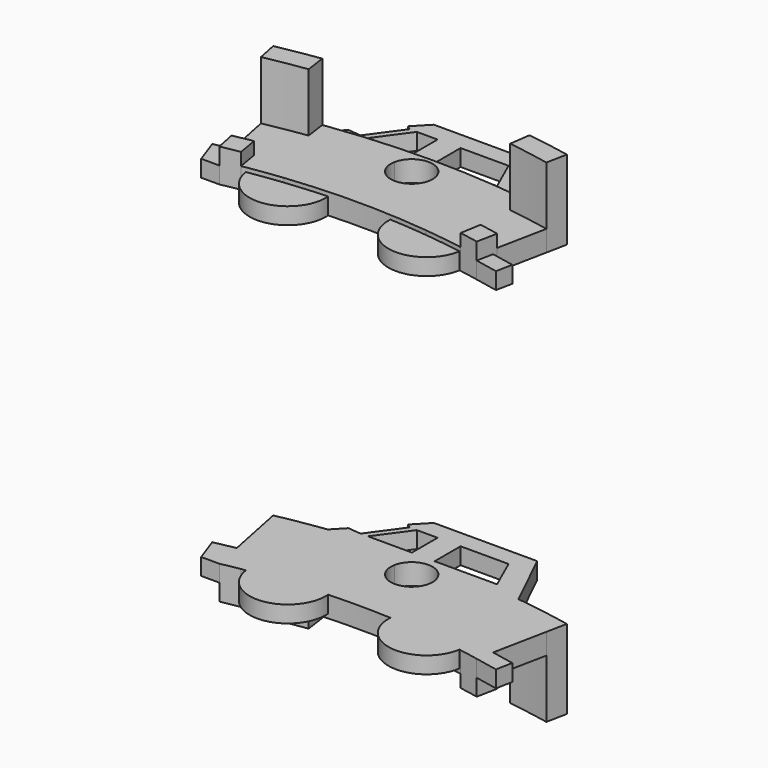
from build123d import *

# Parameters (mm, degrees)
F1_DEPTH  = 1.25
F3_DEPTH  = 4.75
F5_DEPTH  = 2
F7_DEPTH  = 1
F9_DEPTH  = 25
F10_R     = 2.2875743418
F10_R_2   = 2.2850709554
F11_DEPTH = 1
F13_DEPTH = 1


with BuildPart() as f1:
    # F0 (on Top) → F1 (new body)
    with BuildSketch(Plane.XY):
        with BuildLine():
            ThreePointArc((5.9976509575, 42.832122093), (6.6456632834, 42.7363739632), (7.2921511628, 42.6308225515))
            Line((7.2921511628, 42.6308225515), (7.5029069767, 43.8629272495))
            ThreePointArc((7.5029069767, 43.8629272495), (6.7010150496, 43.9925720697), (5.8968902794, 44.1075581395))
            ThreePointArc((5.8968902794, 44.1075581395), (5.9741669577, 43.5561736795), (6, 43))
            ThreePointArc((6, 43), (5.9994127106, 42.9160528296), (5.9976509575, 42.832122093))
        make_face()
        with BuildLine():
            Line((-7.5029069767, 43.8629272495), (-7.2921511628, 42.6308225515))
            ThreePointArc((-7.2921511628, 42.6308225515), (-6.6456632834, 42.7363739632), (-5.9976509575, 42.832122093))
            ThreePointArc((-5.9976509575, 42.832122093), (-5.9813637313, 43.4725335051), (-5.8968902794, 44.1075581395))
            ThreePointArc((-5.8968902794, 44.1075581395), (-6.7010150496, 43.9925720697), (-7.5029069767, 43.8629272495))
        make_face()
        with BuildLine():
            ThreePointArc((1.2281761729, 43.2325581395), (3.6184570865, 43.0983673509), (5.9976509575, 42.832122093))
            ThreePointArc((5.9976509575, 42.832122093), (5.9994127106, 42.9160528296), (6, 43))
            ThreePointArc((6, 43), (5.9741669577, 43.5561736795), (5.8968902794, 44.1075581395))
            ThreePointArc((5.8968902794, 44.1075581395), (0, 44.5), (-5.8968902794, 44.1075581395))
            ThreePointArc((-5.8968902794, 44.1075581395), (-5.9813637313, 43.4725335051), (-5.9976509575, 42.832122093))
            ThreePointArc((-5.9976509575, 42.832122093), (-3.6184570865, 43.0983673509), (-1.2281761729, 43.2325581395))
            ThreePointArc((-1.2281761729, 43.2325581395), (0, 44.25), (1.2281761729, 43.2325581395))
        make_face()
        with BuildLine():
            ThreePointArc((5.1487358592, 39.9193313953), (5.9687994799, 39.804973719), (6.7863372093, 39.6737712763))
            Line((6.7863372093, 39.6737712763), (7.2921511628, 42.6308225515))
            ThreePointArc((7.2921511628, 42.6308225515), (6.6456632834, 42.7363739632), (5.9976509575, 42.832122093))
            ThreePointArc((5.9976509575, 42.832122093), (5.7603447969, 41.3211826125), (5.1487358592, 39.9193313953))
        make_face()
        with BuildLine():
            ThreePointArc((-5.1487358592, 39.9193313953), (0, 40.25), (5.1487358592, 39.9193313953))
            ThreePointArc((5.1487358592, 39.9193313953), (5.7603447969, 41.3211826125), (5.9976509575, 42.832122093))
            ThreePointArc((5.9976509575, 42.832122093), (3.6184570865, 43.0983673509), (1.2281761729, 43.2325581395))
            ThreePointArc((1.2281761729, 43.2325581395), (1.244532084, 43.1167899479), (1.25, 43))
            ThreePointArc((1.25, 43), (-0.1167899479, 41.755467916), (-1.2281761729, 43.2325581395))
            ThreePointArc((-1.2281761729, 43.2325581395), (-3.6184570865, 43.0983673509), (-5.9976509575, 42.832122093))
            ThreePointArc((-5.9976509575, 42.832122093), (-5.7603447969, 41.3211826125), (-5.1487358592, 39.9193313953))
        make_face()
        with BuildLine():
            Line((-7.2921511628, 42.6308225515), (-6.7863372093, 39.6737712763))
            ThreePointArc((-6.7863372093, 39.6737712763), (-5.9687994799, 39.804973719), (-5.1487358592, 39.9193313953))
            ThreePointArc((-5.1487358592, 39.9193313953), (-5.7603447969, 41.3211826125), (-5.9976509575, 42.832122093))
            ThreePointArc((-5.9976509575, 42.832122093), (-6.6456632834, 42.7363739632), (-7.2921511628, 42.6308225515))
        make_face()
        with BuildLine():
            Line((-6.7863372093, 39.6737712763), (-6.5755813953, 38.4416665782))
            ThreePointArc((-6.5755813953, 38.4416665782), (-5.4165900946, 38.6220215906), (-4.2526993305, 38.7674418605))
            ThreePointArc((-4.2526993305, 38.7674418605), (-4.7358693269, 39.3160426552), (-5.1487358592, 39.9193313953))
            ThreePointArc((-5.1487358592, 39.9193313953), (-5.9687994799, 39.804973719), (-6.7863372093, 39.6737712763))
        make_face()
        with BuildLine():
            ThreePointArc((-4.2526993305, 38.7674418605), (0, 39), (4.2526993305, 38.7674418605))
            ThreePointArc((4.2526993305, 38.7674418605), (4.7358693269, 39.3160426552), (5.1487358592, 39.9193313953))
            ThreePointArc((5.1487358592, 39.9193313953), (0, 40.25), (-5.1487358592, 39.9193313953))
            ThreePointArc((-5.1487358592, 39.9193313953), (-4.7358693269, 39.3160426552), (-4.2526993305, 38.7674418605))
        make_face()
        with BuildLine():
            ThreePointArc((4.2526993305, 38.7674418605), (5.4165900946, 38.6220215906), (6.5755813953, 38.4416665782))
            Line((6.5755813953, 38.4416665782), (6.7863372093, 39.6737712763))
            ThreePointArc((6.7863372093, 39.6737712763), (5.9687994799, 39.804973719), (5.1487358592, 39.9193313953))
            ThreePointArc((5.1487358592, 39.9193313953), (4.7358693269, 39.3160426552), (4.2526993305, 38.7674418605))
        make_face()
        with BuildLine():
            ThreePointArc((6.7863372093, 39.6737712763), (7.3721720875, 39.5690987857), (7.9563953488, 39.4557761684))
            Line((7.9563953488, 39.4557761684), (8.5494186047, 42.3965793611))
            ThreePointArc((8.5494186046, 42.3965793611), (7.9216507524, 42.5183483846), (7.2921511628, 42.6308225515))
            Line((7.2921511628, 42.6308225515), (6.7863372093, 39.6737712763))
        make_face()
        with BuildLine():
            Line((-8.5494186047, 42.3965793611), (-7.9563953488, 39.4557761684))
            ThreePointArc((-7.9563953488, 39.4557761684), (-7.3721720874, 39.5690987857), (-6.7863372093, 39.6737712763))
            Line((-6.7863372093, 39.6737712763), (-7.2921511628, 42.6308225515))
            ThreePointArc((-7.2921511628, 42.6308225515), (-7.9216507524, 42.5183483846), (-8.5494186046, 42.3965793611))
        make_face()
    extrude(amount=F1_DEPTH)

    # F2 (on Top) → F3 (join)
    with BuildSketch(Plane.XY):
        with BuildLine():
            ThreePointArc((6.0348837209, 42.8268920011), (7.2953245865, 42.6302796047), (8.5494186046, 42.3965793611))
            Line((8.5494186047, 42.3965793611), (8.7965116279, 43.6219140247))
            ThreePointArc((8.7965116279, 43.6219140247), (7.5061721179, 43.8623686106), (6.2093023256, 44.0646634462))
            Line((6.2093023256, 44.0646634462), (6.0348837209, 42.8268920011))
        make_face()
        with BuildLine():
            Line((-8.7965116279, 43.6219140247), (-8.5494186047, 42.3965793611))
            ThreePointArc((-8.5494186046, 42.3965793611), (-7.2953245865, 42.6302796047), (-6.0348837209, 42.8268920011))
            Line((-6.0348837209, 42.8268920011), (-6.2093023256, 44.0646634462))
            ThreePointArc((-6.2093023256, 44.0646634462), (-7.5061721179, 43.8623686106), (-8.7965116279, 43.6219140247))
        make_face()
    extrude(amount=F3_DEPTH)

    # F4 (on Top) → F5 (join)
    with BuildSketch(Plane.XY):
        with BuildLine():
            Line((-7.9563953488, 39.4557761684), (-7.7093023256, 38.2304415048))
            ThreePointArc((-7.7093023256, 38.2304415048), (-7.1432226437, 38.3402447862), (-6.5755813953, 38.4416665782))
            Line((-6.5755813953, 38.4416665782), (-6.7863372093, 39.6737712763))
            ThreePointArc((-6.7863372093, 39.6737712763), (-7.3721720874, 39.5690987857), (-7.9563953488, 39.4557761684))
        make_face()
        with BuildLine():
            ThreePointArc((6.5755813953, 38.4416665782), (7.1432226437, 38.3402447862), (7.7093023256, 38.2304415048))
            Line((7.7093023256, 38.2304415048), (7.9563953488, 39.4557761684))
            ThreePointArc((7.9563953488, 39.4557761684), (7.3721720875, 39.5690987857), (6.7863372093, 39.6737712763))
            Line((6.7863372093, 39.6737712763), (6.5755813953, 38.4416665782))
        make_face()
    extrude(amount=F5_DEPTH)

    # F6 (on face) → F7 (join)
    with BuildSketch(Plane(origin=(0, 0, 0), x_dir=(1, 0, 0), z_dir=(0, 0, -1))):
        with BuildLine():
            Line((3.7385432515, -47.7243885398), (5.4642824911, -44.1632382968))
            ThreePointArc((5.4642824911, -44.1632382968), (-0.2299243037, -44.4994060052), (-5.9203532689, -44.1044149397))
            Line((-5.9203532689, -44.1044149397), (-2.453369787, -47.7243885398))
            Line((-2.453369787, -47.7243885398), (3.7385432515, -47.7243885398))
        make_face()
    extrude(amount=-F7_DEPTH)

    # F8 (on face) → F9 (cut)
    with BuildSketch(Plane(origin=(0, 0, 0), x_dir=(1, 0, 0), z_dir=(0, 0, -1))):
        Polygon((0, -46.6590646303), (2.8740365524, -46.6590646303), (3.7385432515, -44.7170436382), (0, -44.7170436382), align=None)
        Polygon((-2.6203277521, -46.6590646303), (-1.376341912, -46.6590646303), (-1.376341912, -44.7383075953), (-4.0142922662, -44.7383075953), align=None)
        Polygon((-5.4976553656, -44.8407121003), (-5.9203532689, -48.9160716534), (-3.0599145684, -46.6590646303), (-4.4538790826, -44.7383075953), align=None)
    extrude(amount=-F9_DEPTH, mode=Mode.SUBTRACT)

    # F10 (on face) → F11 (join)
    with BuildSketch(Plane(origin=(0, 0, 0), x_dir=(1, 0, 0), z_dir=(0, 0, -1))):
        with Locations((-4.0528576357, -38.7888430478)):
            Circle(F10_R)
        with Locations((-4.0528576357, -38.7888430478)):
            Circle(F10_R_2, mode=Mode.SUBTRACT)
        with Locations((-4.0528576357, -38.7888430478)):
            Circle(F10_R_2)
        with Locations((4.2414958589, -38.8176962733)):
            Circle(F10_R_2)
        with BuildLine():
            ThreePointArc((-1.7741774974, -38.9596238972), (-4.0528576357, -38.7888430478), (-6.3176244302, -38.4849012154))
            ThreePointArc((-6.3176244302, -38.4849012154), (-4.290320899, -41.0615419873), (-1.7741774974, -38.9596238972))
        make_face()
    extrude(amount=-F11_DEPTH)

    # F12 (on face) → F13 (join)
    with BuildSketch(Plane(origin=(0, 0, 0), x_dir=(1, 0, 0), z_dir=(0, 0, -1))):
        Polygon((-9.3269270212, -39.7248966284), (-8.0620976235, -39.979953903), (-7.7093023256, -38.2304415048), (-8.7965116279, -38.2304415048), align=None)
        Polygon((7.7093023256, -38.2304415048), (7.9069767442, -39.2107092357), (9.2803416459, -38.9337653969), (9.0826672273, -37.953497666), align=None)
    extrude(amount=-F13_DEPTH)


with BuildPart() as f1_1:
    # F14: moved
    add(f1.part.moved(Location((0, 0, 10))))


with BuildPart() as f15_1:
    # F15: instance of F1
    add(f1_1.part.mirror(Plane.XY))


solid = Compound([f1_1.part, f15_1.part])
